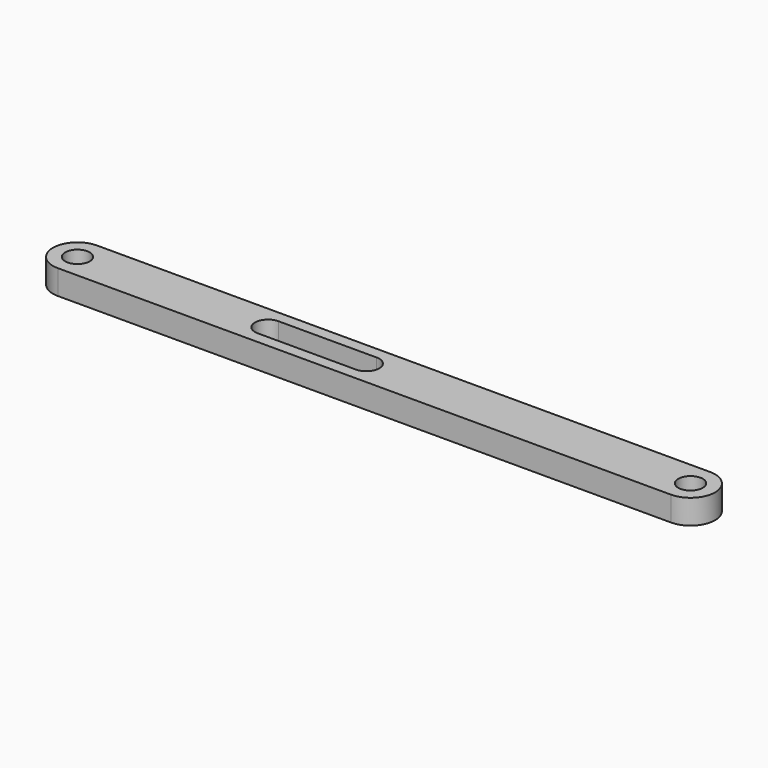
from build123d import *

# Parameters (mm, degrees)
SKETCH_R  = 1
PAD_DEPTH = 2


with BuildPart() as part:
    # Sketch → Pad (new body)
    with BuildSketch(Plane.XY):
        with BuildLine():
            ThreePointArc((-50, 2), (-52, 0), (-50, -2))
            Line((-50, -2), (0, -2))
            ThreePointArc((0, -2), (2, 0), (0, 2))
            Line((-50, 2), (0, 2))
        make_face()
        Circle(SKETCH_R, mode=Mode.SUBTRACT)
        with Locations((-50, 0)):
            Circle(SKETCH_R, mode=Mode.SUBTRACT)
        with BuildLine():
            ThreePointArc((-34.455448, 1.061365), (-35.516813, 0), (-34.455448, -1.061365))
            Line((-34.455448, -1.061365), (-26.442669, -1.061365))
            ThreePointArc((-26.442669, -1.061365), (-25.381304, 0), (-26.442669, 1.061365))
            Line((-34.455448, 1.061365), (-26.442669, 1.061365))
        make_face(mode=Mode.SUBTRACT)
    extrude(amount=PAD_DEPTH)


solid = part.part
